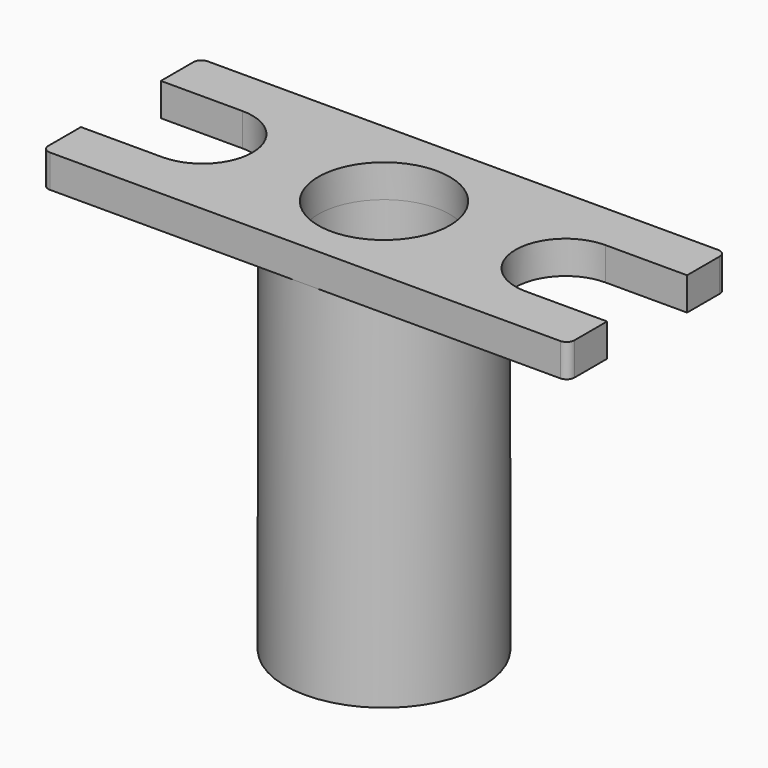
from build123d import *

# Parameters (mm, degrees)
F0_R     = 12.7
F1_DEPTH = 6.35
F2_R     = 1.524
F3_W     = 6.35
F3_H     = 69.85
F5_R     = 12.7
F5_R_2   = 4.7625
F6_DEPTH = 6.35


with BuildPart() as f1:
    # F0 (on Top) → F1 (new body)
    with BuildSketch(Plane.XY):
        with BuildLine():
            Line((-50.8, -19.05), (50.8, -19.05))
            Line((50.8, -19.05), (50.8, -9.652))
            Line((50.8, -9.652), (35.052, -9.652))
            ThreePointArc((35.052, -9.652), (25.4, 0), (35.052, 9.652))
            Line((35.052, 9.652), (50.8, 9.652))
            Line((50.8, 9.652), (50.8, 19.05))
            Line((50.8, 19.05), (-50.8, 19.05))
            Line((-50.8, 19.05), (-50.8, 9.652))
            Line((-50.8, 9.652), (-35.052, 9.652))
            ThreePointArc((-35.052, 9.652), (-25.4, 0), (-35.052, -9.652))
            Line((-35.052, -9.652), (-50.8, -9.652))
            Line((-50.8, -9.652), (-50.8, -19.05))
        make_face()
        Circle(F0_R, mode=Mode.SUBTRACT)
    extrude(amount=F1_DEPTH)

    # F2
    f2_edges = [f1.edges().sort_by_distance(p)[0] for p in [
        (-50.8, 19.05, 3.175),
        (50.8, 19.05, 3.175),
        (50.8, -19.05, 3.175),
        (-50.8, -19.05, 3.175),
    ]]
    fillet(f2_edges, radius=F2_R)

    # F3 (on Right) → F4 (revolve)
    with BuildSketch(Plane.YZ):
        with Locations((-15.875, -34.925)):
            Rectangle(F3_W, F3_H)
    revolve(axis=Axis((0, 0, -16.966719), (0, 0, -1)))

    # F5 (on face) → F6 (join)
    with BuildSketch(Plane(origin=(0, 0, -69.85), x_dir=(1, 0, 0), z_dir=(0, 0, -1))):
        Circle(F5_R)
        Circle(F5_R_2, mode=Mode.SUBTRACT)
    extrude(amount=-F6_DEPTH)


solid = f1.part
